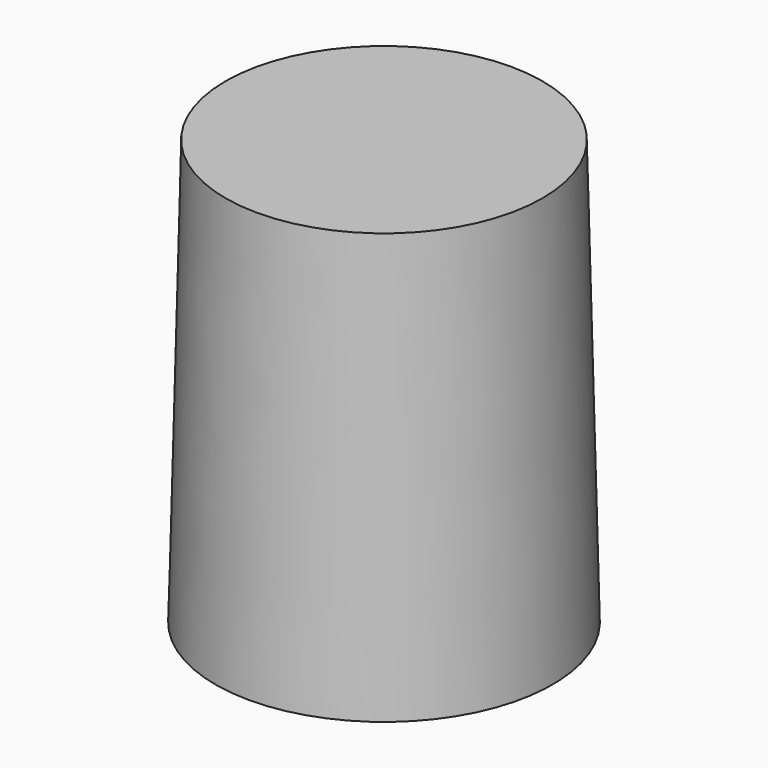
from build123d import *

# Parameters (mm, degrees)
SKETCH_R     = 6.35
SKETCH001_R  = 5.969
SKETCH002_R  = 3.175
POCKET_DEPTH = 12.7


with BuildPart() as part:
    # Sketch → AdditiveLoft section 0
    with BuildSketch(Plane(origin=(0, 0, 0), x_dir=(0, 1, 0), z_dir=(0, 0, 1))):
        Circle(SKETCH_R)
    # Sketch001 → AdditiveLoft section 1
    with BuildSketch(Plane(origin=(0, 0, 16.002), x_dir=(0, 1, 0), z_dir=(0, 0, 1))):
        Circle(SKETCH001_R)
    loft()

    # Sketch002 → Pocket (cut)
    with BuildSketch(Plane(origin=(0, 0, 0), x_dir=(0, 1, 0), z_dir=(0, 0, 1))):
        Circle(SKETCH002_R)
    extrude(amount=POCKET_DEPTH, mode=Mode.SUBTRACT)


solid = part.part
